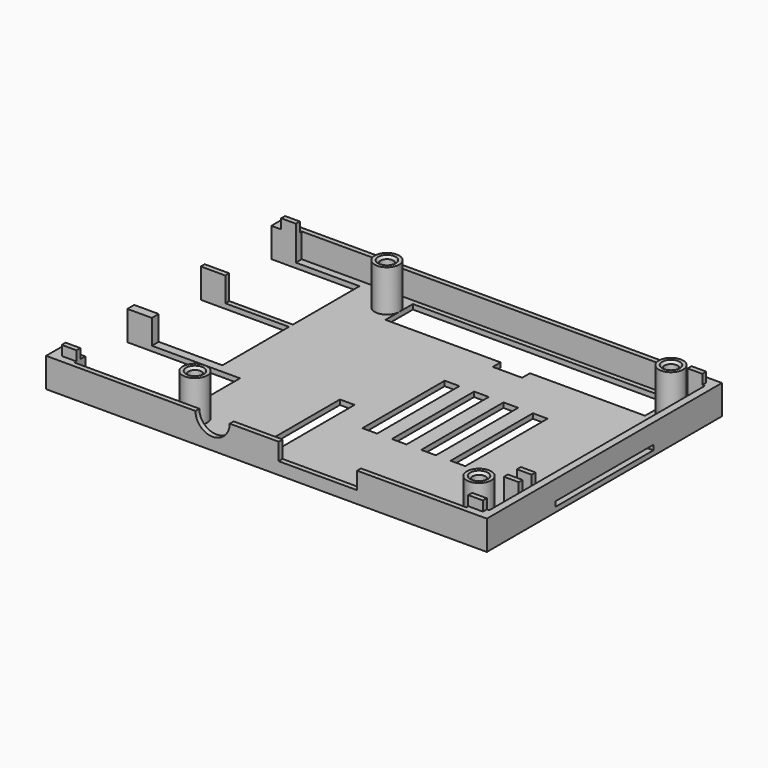
from build123d import *

# Parameters (mm, degrees)
BOX002_W      = 3
BOX002_H      = 20
BOX002_DEPTH  = 5
BOX001_W      = 51
BOX001_H      = 20
BOX001_DEPTH  = 1
BOX_W         = 2
BOX_H         = 25
BOX_DEPTH     = 1
SKETCH_W      = 3
SKETCH_H      = 21
PAD_DEPTH     = 1
SKETCH001_W   = 5
SKETCH001_H   = 1.75
SKETCH001_H_2 = 1
PAD001_DEPTH  = 5
SKETCH002_W   = 3
SKETCH002_H   = 1
PAD002_DEPTH  = 2
SKETCH003_R   = 2.5
SKETCH003_R_2 = 1.3
PAD003_DEPTH  = 8.5
SKETCH004_W   = 16
SKETCH004_H   = 3.5
POCKET_DEPTH  = 1
CHAMFER_SIZE  = 0.5
SKETCH005_W   = 3
SKETCH005_H   = 1
PAD004_DEPTH  = 7
FILLET_R      = 1


with BuildPart() as obj1:
    # Box002 → Box002 (new body)
    with BuildSketch(Plane(origin=(-5, -25, -1), x_dir=(1, 0, 0), z_dir=(0, 0, 1))):
        with Locations((1.5, 10)):
            Rectangle(BOX002_W, BOX002_H)
    extrude(amount=BOX002_DEPTH)


with BuildPart() as wire_channel:
    # Box001 → Box001 (new body)
    with BuildSketch(Plane(origin=(-5, -25, -1), x_dir=(1, 0, 0), z_dir=(0, 0, 1))):
        with Locations((25.5, 10)):
            Rectangle(BOX001_W, BOX001_H)
    extrude(amount=BOX001_DEPTH)

    # Fusion: union obj1
    add(obj1.part)


with BuildPart() as obj2:
    # Box → Box (new body)
    with BuildSketch(Plane(origin=(43, -12.5, 1), x_dir=(1, 0, 0), z_dir=(0, 0, 1))):
        with Locations((1, 12.5)):
            Rectangle(BOX_W, BOX_H)
    extrude(amount=BOX_DEPTH)


with BuildPart() as cut001:
    # Sketch → Pad (new body)
    with BuildSketch(Plane.XY):
        Polygon((-45, 30), (45, 30), (45, -30), (-45, -30), (-45, -26.25), (-22, -26.25), (-22, -9.25), (-45, -9.25), (-45, -7.5), (-27, -7.5), (-27, 9.5), (-45, 9.5), (-45, 10.5), (-27, 10.5), (-27, 27.5), (-45, 27.5), align=None)
        Polygon((36.5, 21), (36.5, 28), (-16.5, 28), (-16.5, 21), (7, 21), (7, 19), (13, 19), (13, 21), align=None, mode=Mode.SUBTRACT)
        with Locations((5.5, 0)):
            Rectangle(SKETCH_W, SKETCH_H, mode=Mode.SUBTRACT)
        with Locations((11.5, 0)):
            Rectangle(SKETCH_W, SKETCH_H, mode=Mode.SUBTRACT)
        with Locations((17.5, 0)):
            Rectangle(SKETCH_W, SKETCH_H, mode=Mode.SUBTRACT)
        with Locations((23.5, 0)):
            Rectangle(SKETCH_W, SKETCH_H, mode=Mode.SUBTRACT)
    extrude(amount=PAD_DEPTH)

    # Sketch001 (on Face42 of Pad) → Pad001 (new body)
    with BuildSketch(Plane.XY.offset(1)):
        with Locations((-42.5, -8.375)):
            Rectangle(SKETCH001_W, SKETCH001_H)
        with Locations((-42.5, 10)):
            Rectangle(SKETCH001_W, SKETCH001_H_2)
        Polygon((-45, 30), (45, 30), (45, -30), (-45, -30), (-45, -26.25), (-40, -26.25), (-40, -29), (40, -29), (40, -27.5), (43.5, -27.5), (43.5, 27.5), (40, 27.5), (40, 29), (-40, 29), (-40, 27.5), (-45, 27.5), align=None)
    extrude(amount=PAD001_DEPTH)

    # Sketch002 (on Face56 of Pad001) → Pad002 (new body)
    with BuildSketch(Plane.XY.offset(6)):
        with Locations((41.5, 28)):
            Rectangle(SKETCH002_W, SKETCH002_H)
        with Locations((-41.5, 28)):
            Rectangle(SKETCH002_W, SKETCH002_H)
        with Locations((-41.5, -28)):
            Rectangle(SKETCH002_W, SKETCH002_H)
        with Locations((41.5, -28)):
            Rectangle(SKETCH002_W, SKETCH002_H)
    extrude(amount=PAD002_DEPTH)

    # Sketch003 (on Face47 of Pad002) → Pad003 (new body)
    with BuildSketch(Plane.XY.offset(1)):
        with Locations((-19, 24.5)):
            Circle(SKETCH003_R)
        with Locations((-19, 24.5)):
            Circle(SKETCH003_R_2, mode=Mode.SUBTRACT)
        with Locations((39, 24.5)):
            Circle(SKETCH003_R)
        with Locations((39, 24.5)):
            Circle(SKETCH003_R_2, mode=Mode.SUBTRACT)
        with Locations((-19, -24.5)):
            Circle(SKETCH003_R)
        with Locations((-19, -24.5)):
            Circle(SKETCH003_R_2, mode=Mode.SUBTRACT)
        with Locations((39, -24.5)):
            Circle(SKETCH003_R)
        with Locations((39, -24.5)):
            Circle(SKETCH003_R_2, mode=Mode.SUBTRACT)
    extrude(amount=PAD003_DEPTH)

    # Sketch004 (on Face45 of Pad003) → Pocket (cut)
    with BuildSketch(Plane.XZ.offset(30)):
        with BuildLine():
            ThreePointArc((-14.5, 6), (-11, 2.5), (-7.5, 6))
            Line((-14.5, 6), (-7.5, 6))
        make_face()
        with Locations((10.5, 4.25)):
            Rectangle(SKETCH004_W, SKETCH004_H)
    extrude(amount=-POCKET_DEPTH, mode=Mode.SUBTRACT)

    # Chamfer
    chamfer_edges = [cut001.edges().sort_by_distance(p)[0] for p in [
        (-20.3, 24.5, 9.5),
        (37.7, 24.5, 9.5),
        (37.7, -24.5, 9.5),
        (-20.3, -24.5, 9.5),
    ]]
    chamfer(chamfer_edges, length=CHAMFER_SIZE)

    # Sketch005 (on Face5 of Chamfer) → Pad004 (new body)
    with BuildSketch(Plane.XY.offset(1)):
        with Locations((42, -16.2)):
            Rectangle(SKETCH005_W, SKETCH005_H)
        with Locations((42, -19.5)):
            Rectangle(SKETCH005_W, SKETCH005_H)
    extrude(amount=PAD004_DEPTH)

    # Cut: cut obj2
    add(obj2.part, mode=Mode.SUBTRACT)

    # Fillet
    fillet_edges = [cut001.edges().sort_by_distance(p)[0] for p in [
        (43.5, 0, 2),
    ]]
    fillet(fillet_edges, radius=FILLET_R)

    # Cut001: cut wire channel
    add(wire_channel.part, mode=Mode.SUBTRACT)


solid = cut001.part
